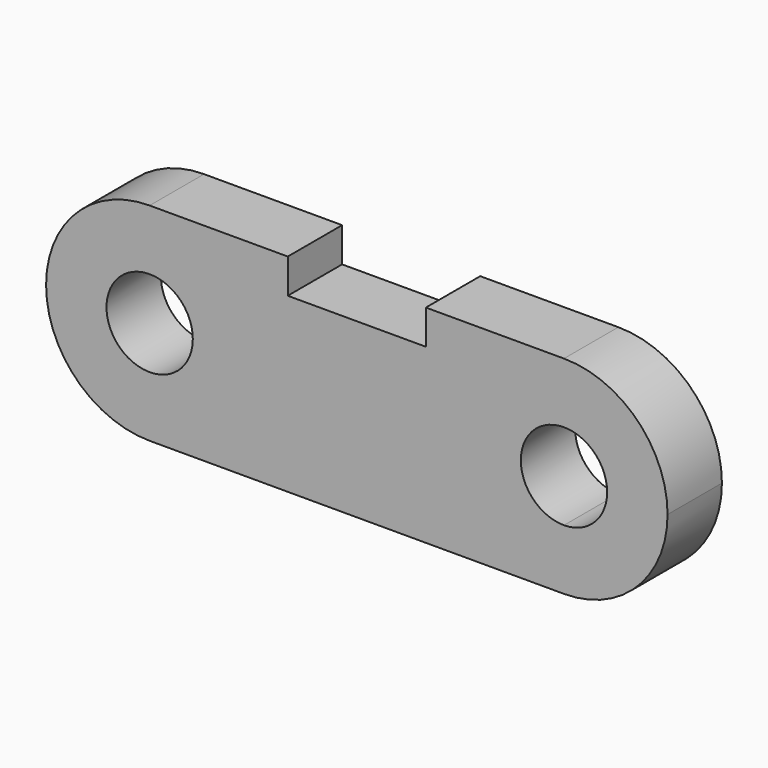
from build123d import *

# Parameters (mm, degrees)
F0_R     = 15.875
F1_DEPTH = 25


with BuildPart() as f1:
    # F0 (on Front) → F1 (new body)
    with BuildSketch(Plane.XZ):
        with BuildLine():
            ThreePointArc((119.454033, -31.162363), (81.354033, 6.937637), (119.454033, 45.037637))
            Line((119.454033, 45.037637), (68.646235, 45.037637))
            Line((68.646235, 45.037637), (68.646235, 32.337637))
            Line((68.646235, 32.337637), (17.846235, 32.337637))
            Line((17.846235, 32.337637), (17.846235, 45.037637))
            Line((17.846235, 45.037637), (-32.953765, 45.037637))
            ThreePointArc((-32.953765, 45.037637), (-6.012997, 33.878405), (5.146235, 6.937637))
            ThreePointArc((5.146235, 6.937637), (-6.012997, -20.003131), (-32.953765, -31.162363))
            Line((-32.953765, -31.162363), (119.454033, -31.162363))
        make_face()
        with BuildLine():
            ThreePointArc((-71.053765, 6.937637), (-59.894534, -20.003131), (-32.953765, -31.162363))
            ThreePointArc((-32.953765, -31.162363), (-6.012997, -20.003131), (5.146235, 6.937637))
            ThreePointArc((5.146235, 6.937637), (-6.012997, 33.878405), (-32.953765, 45.037637))
            ThreePointArc((-32.953765, 45.037637), (-59.894534, 33.878405), (-71.053765, 6.937637))
        make_face()
        with Locations((-32.953765, 6.937637)):
            Circle(F0_R, mode=Mode.SUBTRACT)
        with BuildLine():
            ThreePointArc((119.454033, -31.162363), (146.394801, -20.003131), (157.554033, 6.937637))
            ThreePointArc((157.554033, 6.937637), (146.394801, 33.878405), (119.454033, 45.037637))
            ThreePointArc((119.454033, 45.037637), (81.354033, 6.937637), (119.454033, -31.162363))
        make_face()
        with BuildLine():
            ThreePointArc((119.454033, 22.812637), (130.679353, 18.162957), (135.329033, 6.937637))
            ThreePointArc((135.329033, 6.937637), (130.679353, -4.287683), (119.454033, -8.937363))
            ThreePointArc((119.454033, -8.937363), (103.579033, 6.937637), (119.454033, 22.812637))
        make_face(mode=Mode.SUBTRACT)
    extrude(amount=F1_DEPTH)


solid = f1.part
